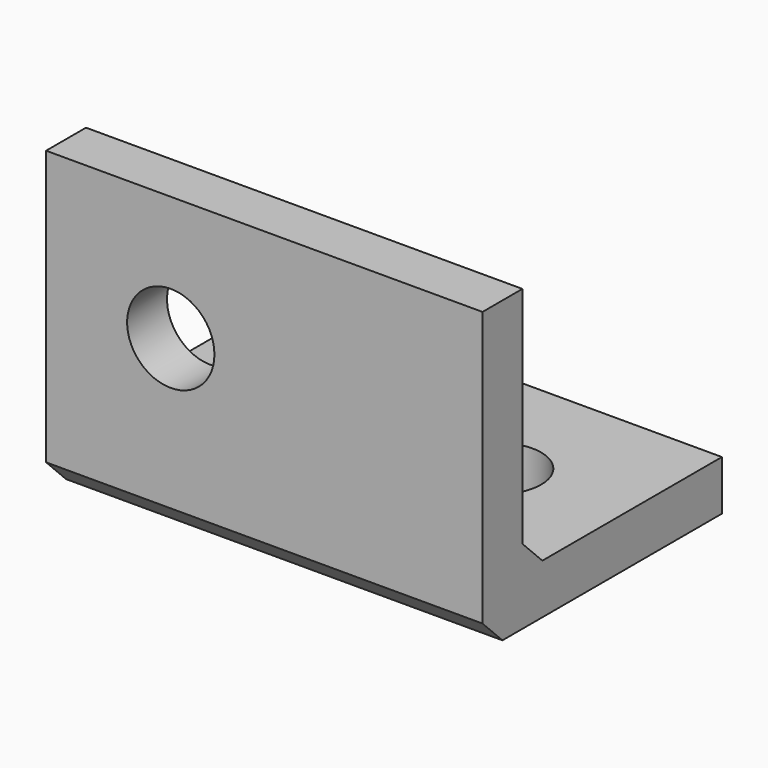
from build123d import *

# Parameters (mm, degrees)
F0_W     = 22.225
F0_H     = 15.24
F0_R     = 2.2225
F1_DEPTH = 2.54
F2_W     = 22.225
F2_H     = 12.7
F2_R     = 2.2225
F3_DEPTH = 2.54
F4_SIZE  = 1.27
F5_SIZE  = 1.27


with BuildPart() as f1:
    # F0 (on Top) → F1 (new body)
    with BuildSketch(Plane.XY):
        with Locations((11.1125, 7.62)):
            Rectangle(F0_W, F0_H)
        with Locations((15.875, 8.89)):
            Circle(F0_R, mode=Mode.SUBTRACT)
    extrude(amount=F1_DEPTH)

    # F2 (on face) → F3 (join)
    with BuildSketch(Plane.XZ):
        with Locations((11.1125, 8.89)):
            Rectangle(F2_W, F2_H)
        with Locations((6.35, 8.89)):
            Circle(F2_R, mode=Mode.SUBTRACT)
    extrude(amount=-F3_DEPTH)

    # F4
    f4_edges = [f1.edges().sort_by_distance(p)[0] for p in [
        (11.1125, 0, 0),
    ]]
    chamfer(f4_edges, length=F4_SIZE)

    # F5
    f5_edges = [f1.edges().sort_by_distance(p)[0] for p in [
        (11.1125, 2.54, 2.54),
    ]]
    chamfer(f5_edges, length=F5_SIZE)


solid = f1.part
